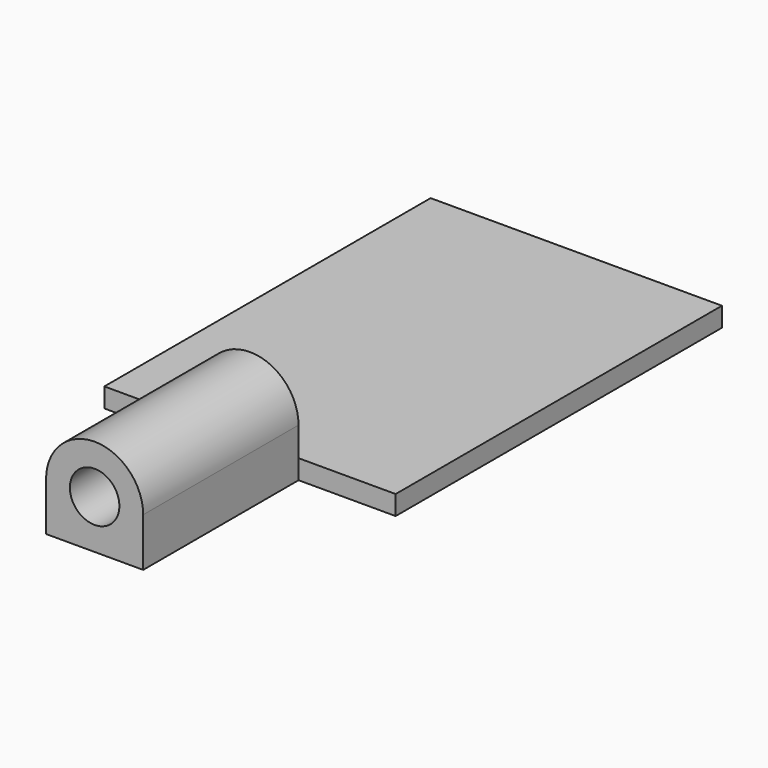
from build123d import *

# Parameters (mm, degrees)
SKETCH_W     = 30
SKETCH_H     = 42
PAD_DEPTH    = 5
SKETCH001_R  = 2.55
PAD001_DEPTH = 20
SKETCH002_W  = 42
SKETCH002_H  = 3
POCKET_DEPTH = 30.001


with BuildPart() as part:
    # Sketch → Pad (new body)
    with BuildSketch(Plane.XY):
        Rectangle(SKETCH_W, SKETCH_H)
    extrude(amount=PAD_DEPTH)

    # Sketch001 (on Face3 of Pad) → Pad001 (join)
    with BuildSketch(Plane.XZ.offset(21)):
        with BuildLine():
            ThreePointArc((5, 5), (0, 10), (-5, 5))
            Line((-5, 5), (-5, 0))
            Line((-5, 0), (5, 0))
            Line((5, 0), (5, 5))
        make_face()
        with Locations((0, 5)):
            Circle(SKETCH001_R, mode=Mode.SUBTRACT)
    extrude(amount=PAD001_DEPTH)

    # Sketch002 (on Face2 of Pad001) → Pocket (cut, through all)
    with BuildSketch(Plane(origin=(-15, 0, 0), x_dir=(0, -1, 0), z_dir=(-1, 0, 0))):
        with Locations((0, 3.5)):
            Rectangle(SKETCH002_W, SKETCH002_H)
    extrude(amount=-POCKET_DEPTH, mode=Mode.SUBTRACT)


solid = part.part
